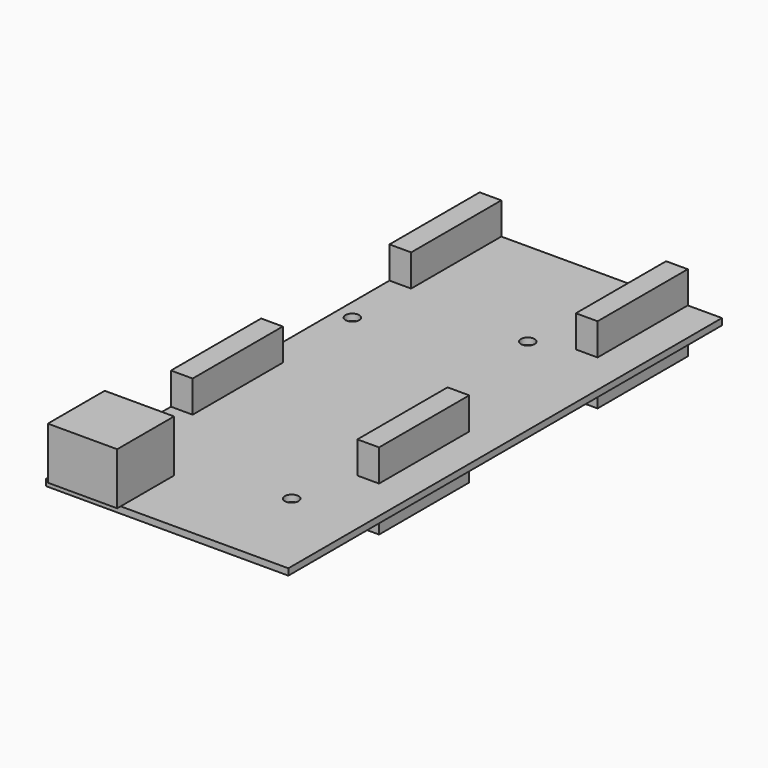
from build123d import *

# Parameters (mm, degrees)
SKETCH018_W             = 125
SKETCH018_H             = 55.88
SKETCH018_R             = 1.5875
PAD007_DEPTH            = 1.5
SKETCH017_W             = 26
SKETCH017_H             = 5
PAD008_DEPTH            = 8.85
SKETCH019_W             = 16.4
SKETCH019_H             = 16
PAD009_DEPTH            = 12
BODY004_PLACEMENT_ANGLE = 90


with BuildPart() as part:
    # Sketch018 → Pad007 (new body)
    with BuildSketch(Plane.XY):
        with Locations((62.5, 27.94)):
            Rectangle(SKETCH018_W, SKETCH018_H)
        with Locations((21.59, 16.51)):
            Circle(SKETCH018_R, mode=Mode.SUBTRACT)
        with Locations((83.55, 52.07)):
            Circle(SKETCH018_R, mode=Mode.SUBTRACT)
        with Locations((96, 21.57)):
            Circle(SKETCH018_R, mode=Mode.SUBTRACT)
    extrude(amount=PAD007_DEPTH)

    # Sketch017 (on Face8 of Pad007) → Pad008 (join, symmetric)
    with BuildSketch(Plane(origin=(0, 0, 0), x_dir=(1, 0, 0), z_dir=(0, 0, -1))):
        with Locations((49, -10.38)):
            Rectangle(SKETCH017_W, SKETCH017_H)
        with Locations((112, -10.38)):
            Rectangle(SKETCH017_W, SKETCH017_H)
        with Locations((112, -53.38)):
            Rectangle(SKETCH017_W, SKETCH017_H)
        with Locations((49, -53.38)):
            Rectangle(SKETCH017_W, SKETCH017_H)
    extrude(amount=PAD008_DEPTH, both=True)

    # Sketch019 (on Face4 of Pad008) → Pad009 (join)
    with BuildSketch(Plane.XY.offset(1.5)):
        with Locations((7.2, 46.68)):
            Rectangle(SKETCH019_W, SKETCH019_H)
    extrude(amount=PAD009_DEPTH)


with BuildPart() as part_1:
    # Body004 placement: moved
    add(part.part.moved(Location((28, 0, 39))).rotate(Axis((28, 0, 39), (0, 0, 1)), BODY004_PLACEMENT_ANGLE))


solid = part_1.part
